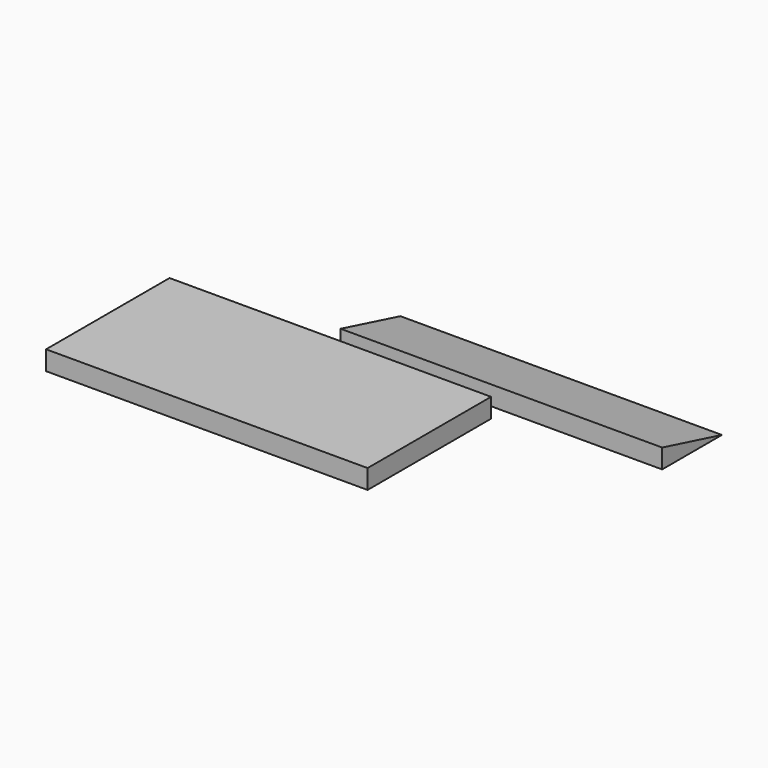
from build123d import *

# Parameters (mm, degrees)
F0_W     = 1270
F0_H     = 609.6
F1_DEPTH = 76.2
F3_DEPTH = 1270


with BuildPart() as f1:
    # F0 (on Top) → F1 (new body)
    with BuildSketch(Plane.XY):
        with Locations((11.240333, 1.574429)):
            Rectangle(F0_W, F0_H)
    extrude(amount=F1_DEPTH)


with BuildPart() as f3:
    # F2 (on Right) → F3 (new body)
    with BuildSketch(Plane.YZ):
        Polygon((371.356769, 76.2), (371.356769, 0), (666.4781, 0), align=None)
    extrude(amount=F3_DEPTH)


solid = Compound([f1.part, f3.part])
